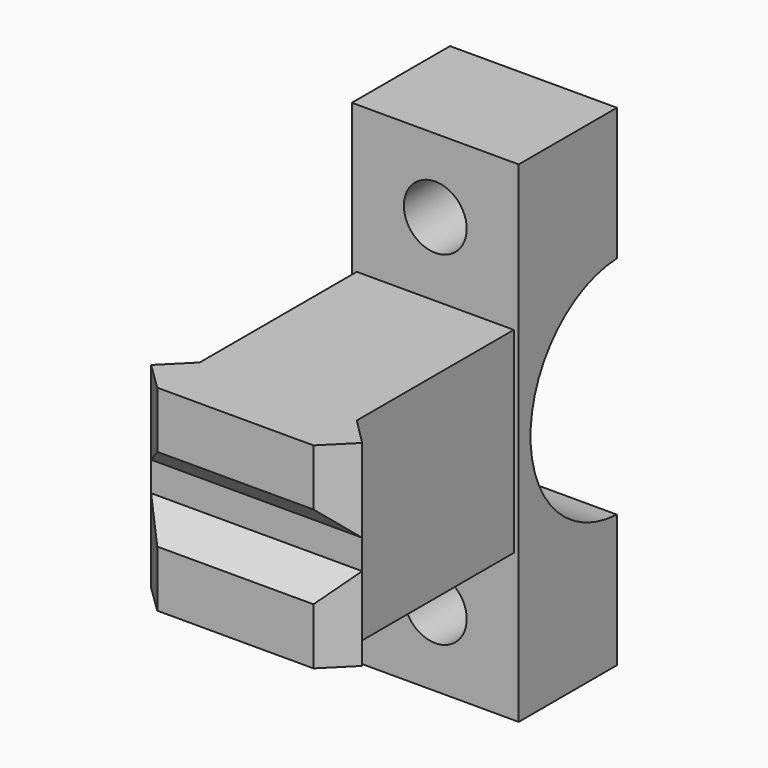
from build123d import *

# Parameters (mm, degrees)
PAD_DEPTH       = 20
POCKET_DEPTH    = 15
PAD001_DEPTH    = 8.5
SKETCH005_R     = 3.2
POCKET001_DEPTH = 12.5


with BuildPart() as part:
    # Sketch002 → Pad (new body)
    with BuildSketch(Plane.XY):
        Polygon((8, -7), (8, -27), (10.75, -29.75), (7.993292, -32.5), (-7.924012, -32.5), (-10.75, -29.75), (-8, -27), (-8, -7), align=None)
    extrude(amount=PAD_DEPTH)

    # Sketch004 → Pocket (cut, symmetric)
    with BuildSketch(Plane.YZ):
        Polygon((-29.75, 11.5), (-29.75, 8.5), (-33.75, 4.5), (-33.75, 15.5), align=None)
    extrude(amount=POCKET_DEPTH, both=True, mode=Mode.SUBTRACT)

    # Sketch → Pad001 (join, symmetric)
    with BuildSketch(Plane.YZ):
        with BuildLine():
            ThreePointArc((5.5, 21.489125), (-5.5, 10), (5.5, -1.489125))
            Line((5.5, -1.489125), (5.5, -15))
            Line((5.5, -15), (-7, -15))
            Line((-7, -15), (-7, 35))
            Line((-7, 35), (5.5, 35))
            Line((5.5, 35), (5.5, 21.489125))
        make_face()
    extrude(amount=PAD001_DEPTH, both=True)

    # Sketch005 → Pocket001 (cut, symmetric)
    with BuildSketch(Plane.XZ):
        with Locations((0, 27.5)):
            Circle(SKETCH005_R)
        with Locations((0, -7.5)):
            Circle(SKETCH005_R)
    extrude(amount=POCKET001_DEPTH, both=True, mode=Mode.SUBTRACT)


solid = part.part
